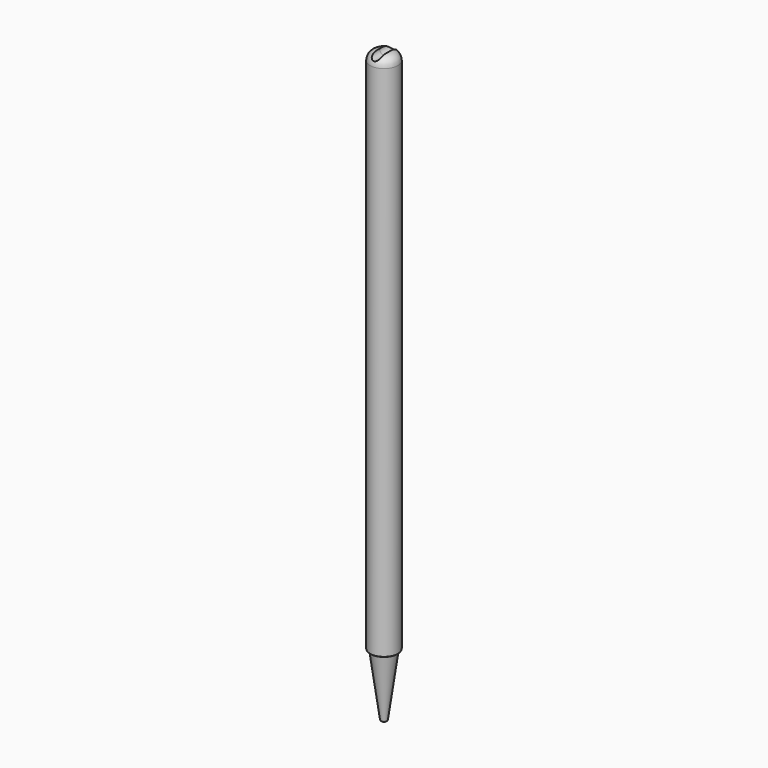
from build123d import *

# Parameters (mm, degrees)
F2_R          = 6
F3_DEPTH      = 25
F3_DEPTH_BACK = 25


with BuildPart() as f1:
    # F0 (on Front) → F1 (revolve)
    with BuildSketch(Plane.XZ):
        with BuildLine():
            Line((-18.75, 784), (-18.75, 768))
            Line((-18.75, 768), (-18.75, 86))
            ThreePointArc((-18.75, 86), (-18.4571067812, 85.2928932188), (-17.75, 85))
            Line((-17.75, 85), (-15.75, 85))
            Line((-15.75, 85), (-4.2386125976, 1.7261336846))
            ThreePointArc((-4.2386125976, 1.7261336846), (-3.5712760873, 0.4920655467), (-2.2574520182, 0))
            Line((-2.2574520182, 0), (0, 0))
            Line((0, 0), (0, 634))
            Line((0, 634), (0, 796))
            Line((0, 796), (-6.75, 796))
            ThreePointArc((-6.75, 796), (-15.2352813742, 792.4852813742), (-18.75, 784))
        make_face()
    revolve(axis=Axis((0, 0, 317), (0, 0, -1)))

    # F2 (on Front) → F3 (cut, two sides)
    with BuildSketch(Plane.XZ) as f3_sk:
        with Locations((0, 796)):
            Circle(F2_R)
    extrude(amount=-F3_DEPTH, mode=Mode.SUBTRACT)
    extrude(f3_sk.sketch, amount=F3_DEPTH_BACK, mode=Mode.SUBTRACT)


solid = f1.part
